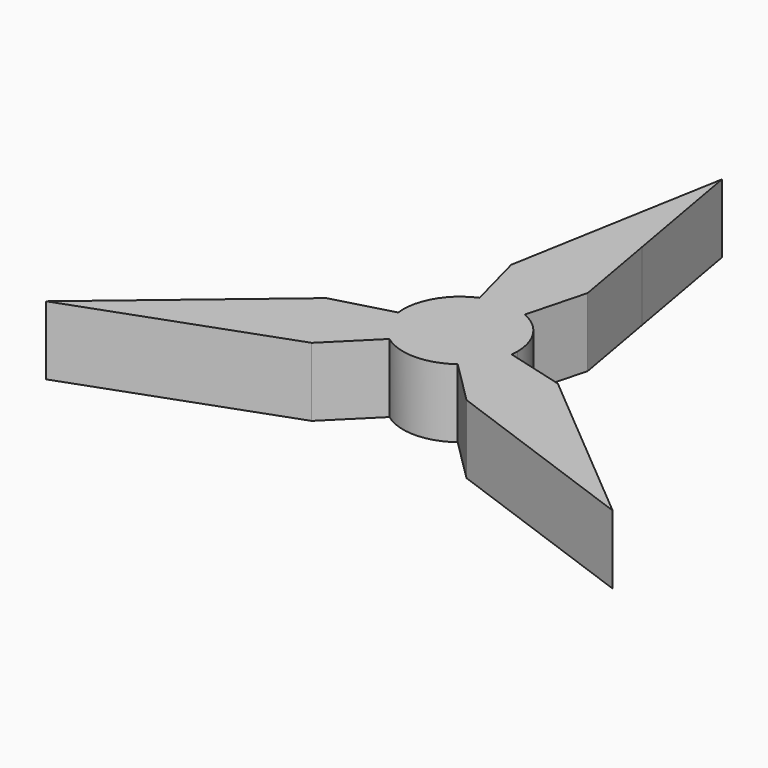
from build123d import *

# Parameters (mm, degrees)
F1_DEPTH = 4.826


with BuildPart() as f1:
    # F0 (on Top) → F1 (new body)
    with BuildSketch(Plane.XY):
        with BuildLine():
            Line((-5.4340486553, -6.2390901375), (-2.3950662662, -3.2185784738))
            ThreePointArc((-2.3950662662, -3.2185784738), (-3.4744341062, -2.0059654665), (-3.9849038555, -0.4648989934))
            Line((-3.9849038555, -0.4648989934), (-8.1202348833, -1.5864791121))
            Line((-8.1202348833, -1.5864791121), (-12.8773135585, -5.5867265234))
            Line((-12.8773135585, -5.5867265234), (-19.88913827, -11.4829993342))
            Line((-19.88913827, -11.4829993342), (-11.2769038725, -8.3587174124))
            Line((-11.2769038725, -8.3587174124), (-5.4340486553, -6.2390901375))
        make_face()
        with BuildLine():
            Line((8.1202348833, -1.5864791121), (3.9849038555, -0.4648989934))
            ThreePointArc((3.9849038555, -0.4648989934), (3.4744341062, -2.0059654665), (2.3950662662, -3.2185784738))
            Line((2.3950662662, -3.2185784738), (5.4340486553, -6.2390901375))
            Line((5.4340486553, -6.2390901375), (11.2769038725, -8.3587174124))
            Line((11.2769038725, -8.3587174124), (19.88913827, -11.4829993342))
            Line((19.88913827, -11.4829993342), (12.8773135585, -5.5867265234))
            Line((12.8773135585, -5.5867265234), (8.1202348833, -1.5864791121))
        make_face()
        with BuildLine():
            ThreePointArc((0, 4.011930933), (0.8117058025, 3.9289595953), (1.5898375893, 3.6834774672))
            Line((1.5898375893, 3.6834774672), (2.6861862279, 7.8255692497))
            Line((2.6861862279, 7.8255692497), (1.6004096859, 13.9454439358))
            Line((1.6004096859, 13.9454439358), (0, 22.9659986683))
            Line((0, 22.9659986683), (0, 4.011930933))
        make_face()
        with BuildLine():
            ThreePointArc((3.9849038555, -0.4648989934), (4.0051684643, -0.2328419727), (4.011930933, 0))
            ThreePointArc((4.011930933, 0), (3.3521566502, 2.2042312956), (1.5898375893, 3.6834774672))
            ThreePointArc((1.5898375893, 3.6834774672), (0.8117058025, 3.9289595953), (0, 4.011930933))
            ThreePointArc((0, 4.011930933), (-0.8117058025, 3.9289595953), (-1.5898375893, 3.6834774672))
            ThreePointArc((-1.5898375893, 3.6834774672), (-3.4744341062, 2.0059654665), (-3.9849038555, -0.4648989934))
            ThreePointArc((-3.9849038555, -0.4648989934), (-3.4744341062, -2.0059654665), (-2.3950662662, -3.2185784738))
            ThreePointArc((-2.3950662662, -3.2185784738), (0, -4.011930933), (2.3950662662, -3.2185784738))
            ThreePointArc((2.3950662662, -3.2185784738), (3.4744341062, -2.0059654665), (3.9849038555, -0.4648989934))
        make_face()
        with BuildLine():
            ThreePointArc((-1.5898375893, 3.6834774672), (-0.8117058025, 3.9289595953), (0, 4.011930933))
            Line((0, 4.011930933), (0, 22.9659986683))
            Line((0, 22.9659986683), (-1.6004096859, 13.9454439358))
            Line((-1.6004096859, 13.9454439358), (-2.6861862279, 7.8255692497))
            Line((-2.6861862279, 7.8255692497), (-1.5898375893, 3.6834774672))
        make_face()
    extrude(amount=F1_DEPTH)


solid = f1.part
